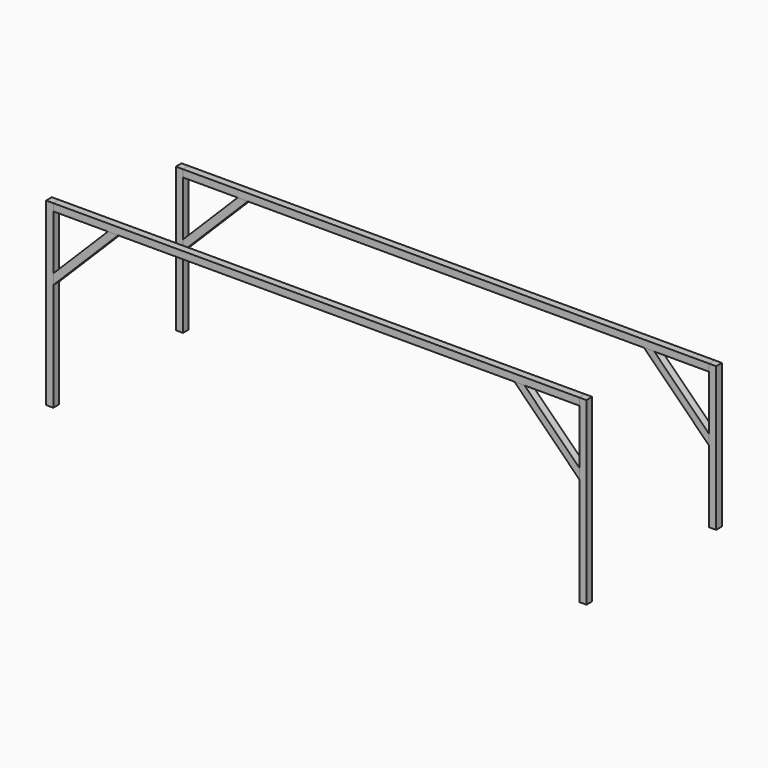
from build123d import *

# Parameters (mm, degrees)
F0_W     = 40
F0_H     = 40
F1_DEPTH = 800
F2_DEPTH = 1000
F3_W     = 40
F3_H     = 40
F4_DEPTH = 2920
F5_W     = 40
F5_H     = 40
F6_DEPTH = 2920
F8_DEPTH = 40


with BuildPart() as f1:
    # F0 (on Top) → F1 (new body)
    with BuildSketch(Plane.XY):
        with Locations((20, -20)):
            Rectangle(F0_W, F0_H)
        with Locations((2980, -20)):
            Rectangle(F0_W, F0_H)
    extrude(amount=F1_DEPTH)


with BuildPart() as f2:
    # F0 (on Top) → F2 (new body)
    with BuildSketch(Plane.XY):
        with Locations((20, -920)):
            Rectangle(F0_W, F0_H)
        with Locations((2980, -920)):
            Rectangle(F0_W, F0_H)
    extrude(amount=F2_DEPTH)


with BuildPart() as f4:
    # F3 (on face) → F4 (new body, through all)
    with BuildSketch(Plane.YZ.offset(40)):
        with Locations((-20, 780)):
            Rectangle(F3_W, F3_H)
    extrude(amount=F4_DEPTH)


with BuildPart() as f6:
    # F5 (on face) → F6 (new body, through all)
    with BuildSketch(Plane.YZ.offset(40)):
        with Locations((-920, 980)):
            Rectangle(F5_W, F5_H)
    extrude(amount=F6_DEPTH)


with BuildPart() as f8:
    # F7 (on face) → F8 (new body)
    with BuildSketch(Plane(origin=(0, 0, 0), x_dir=(-1, 0, 0), z_dir=(0, 1, 0))):
        Polygon((-40, 400), (-40, 456.568542), (-343.431458, 760), (-400, 760), align=None)
    extrude(amount=-F8_DEPTH)


with BuildPart() as f10_1:
    # F10: copy of F8
    add(f8.part.moved(Location((0, -900, 200))))


with BuildPart() as f11_1:
    # F11: instance of F10_1
    add(f10_1.part.mirror(Plane.YZ.offset(1500)))


with BuildPart() as f11_2:
    # F11: instance of F8
    add(f8.part.mirror(Plane.YZ.offset(1500)))


solid = Compound([f1.part, f2.part, f4.part, f6.part, f8.part, f10_1.part, f11_1.part, f11_2.part])
